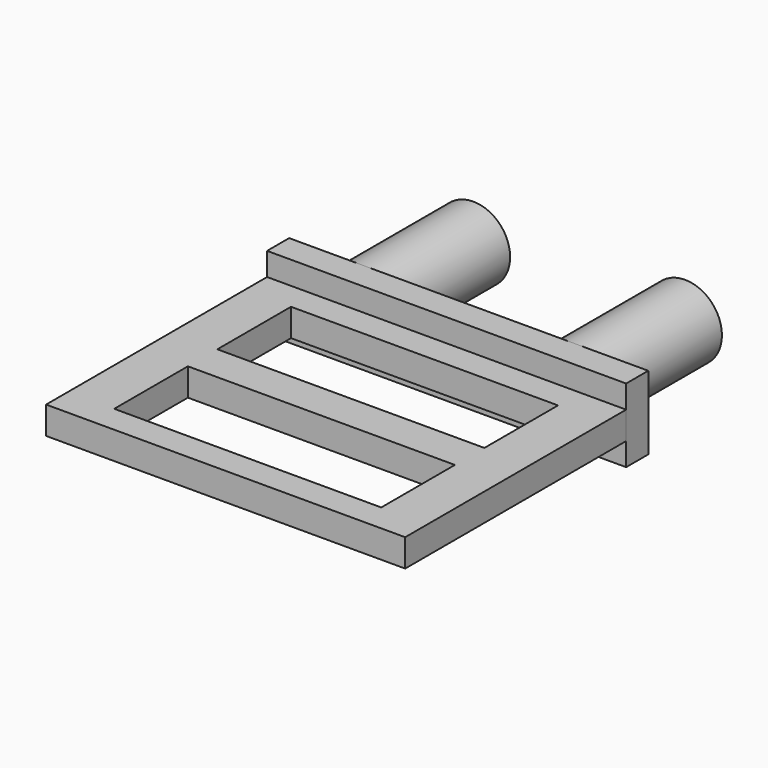
from build123d import *

# Parameters (mm, degrees)
BOX_W                  = 39
BOX_H                  = 3
BOX_DEPTH              = 8
CYLINDER_R             = 4
CYLINDER_DEPTH         = 15
CYLINDER_ROLL_ANGLE    = 90
CYLINDER001_R          = 4
CYLINDER001_DEPTH      = 15
CYLINDER001_ROLL_ANGLE = 90
BOX003_W               = 29
BOX003_H               = 10
BOX003_DEPTH           = 3
BOX002_W               = 29
BOX002_H               = 10
BOX002_DEPTH           = 3
BOX001_W               = 39
BOX001_H               = 30
BOX001_DEPTH           = 3


with BuildPart() as base:
    # Box → Box (new body)
    with BuildSketch(Plane(origin=(-8, -18, -4), x_dir=(1, 0, 0), z_dir=(0, 0, 1))):
        with Locations((19.5, 1.5)):
            Rectangle(BOX_W, BOX_H)
    extrude(amount=BOX_DEPTH)


with BuildPart() as pin2:
    # Cylinder → Cylinder (new body)
    with BuildSketch(Plane.XY):
        Circle(CYLINDER_R)
    extrude(amount=CYLINDER_DEPTH)


with BuildPart() as pin2_1:
    # Cylinder roll: moved
    add(pin2.part.rotate(Axis((0, 0, 0), (1, 0, 0)), CYLINDER_ROLL_ANGLE))


with BuildPart() as pin2_2:
    # Cylinder placement: moved
    add(pin2_1.part.moved(Location((23, 0, 0))))


with BuildPart() as pin1:
    # Cylinder001 → Cylinder001 (new body)
    with BuildSketch(Plane.XY):
        Circle(CYLINDER001_R)
    extrude(amount=CYLINDER001_DEPTH)


with BuildPart() as pin1_1:
    # Cylinder001 roll: moved
    add(pin1.part.rotate(Axis((0, 0, 0), (1, 0, 0)), CYLINDER001_ROLL_ANGLE))


with BuildPart() as pin1_2:
    # Cylinder001 placement: moved
    add(pin1_1.part)


with BuildPart() as cut2:
    # Box003 → Box003 (new body)
    with BuildSketch(Plane(origin=(-3, -45, -1.5), x_dir=(1, 0, 0), z_dir=(0, 0, 1))):
        with Locations((14.5, 5)):
            Rectangle(BOX003_W, BOX003_H)
    extrude(amount=BOX003_DEPTH)


with BuildPart() as fusion:
    # Box002 → Box002 (new body)
    with BuildSketch(Plane(origin=(-3, -31, -1.5), x_dir=(1, 0, 0), z_dir=(0, 0, 1))):
        with Locations((14.5, 5)):
            Rectangle(BOX002_W, BOX002_H)
    extrude(amount=BOX002_DEPTH)

    # Fusion: union Cut2
    add(cut2.part)


with BuildPart() as cut:
    # Box001 → Box001 (new body)
    with BuildSketch(Plane(origin=(-8, -48, -1.5), x_dir=(1, 0, 0), z_dir=(0, 0, 1))):
        with Locations((19.5, 15)):
            Rectangle(BOX001_W, BOX001_H)
    extrude(amount=BOX001_DEPTH)

    # Cut: cut Fusion
    add(fusion.part, mode=Mode.SUBTRACT)


solid = Compound([base.part, pin2_2.part, pin1_2.part, cut.part])
